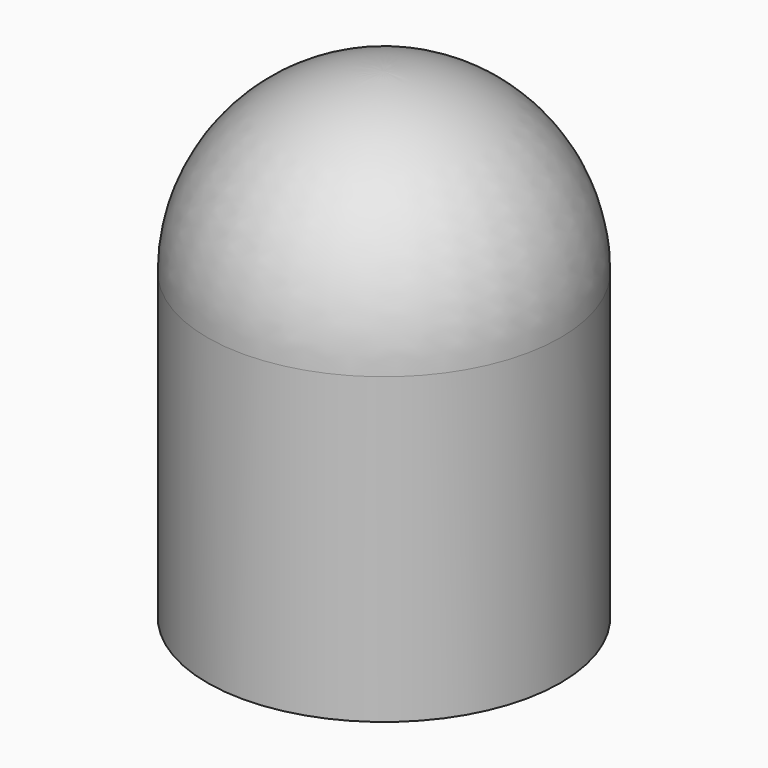
from build123d import *


with BuildPart() as f1:
    # F0 (on Front) → F1 (revolve)
    with BuildSketch(Plane.XZ):
        with BuildLine():
            Line((19.05, -32.766), (19.05, 0))
            ThreePointArc((19.05, 0), (13.470384, 13.470384), (0, 19.05))
            Line((0, 19.05), (0, 18.034))
            ThreePointArc((0, 18.034), (3.191545, 17.749344), (6.282336, 16.904361))
            ThreePointArc((6.282336, 16.904361), (7.483056, 15.973312), (7.9375, 14.523465))
            Line((7.9375, 14.523465), (7.9375, 0))
            Line((7.9375, 0), (7.9375, -1.871141))
            ThreePointArc((7.9375, -1.871141), (8.160685, -2.409956), (8.6995, -2.633141))
            Line((8.6995, -2.633141), (8.9535, -2.633141))
            Line((8.9535, -2.633141), (8.9535, 13.792077))
            ThreePointArc((8.9535, 13.792077), (9.507148, 14.69678), (10.564694, 14.615485))
            ThreePointArc((10.564694, 14.615485), (16.058469, 8.206749), (18.034, 0))
            Line((18.034, 0), (18.034, -31.496))
            Line((18.034, -31.496), (18.034, -31.877))
            ThreePointArc((18.034, -31.877), (18.294382, -32.505618), (18.923, -32.766))
            Line((18.923, -32.766), (19.05, -32.766))
        make_face()
    revolve(axis=Axis((0, 0, -9.965794), (0, 0, -1)))


solid = f1.part
